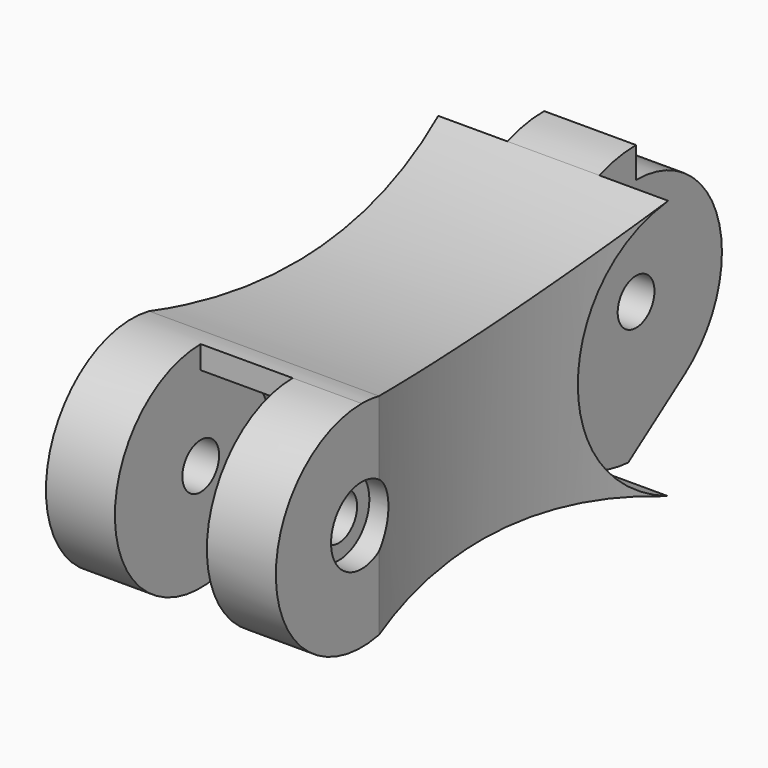
from build123d import *

# Parameters (mm, degrees)
F1_DEPTH  = 4.5
F3_DEPTH  = 6
F5_DEPTH  = 4.5
F6_R      = 9
F7_DEPTH  = 4.5
F8_R      = 9
F9_DEPTH  = 4.5
F11_DEPTH = 10.501
F12_R     = 1.5
F13_DEPTH = 15.001
F14_R     = 2.5
F15_DEPTH = 1.5
F16_R     = 2.5
F17_DEPTH = 1.5
F18_R     = 48.9418090598
F19_DEPTH = 12.5


with BuildPart() as f1:
    # F0 (on Right) → F1 (new body)
    with BuildSketch(Plane.YZ):
        with BuildLine():
            ThreePointArc((24.9939795279, 8.4831504125), (13.3131715809, 6.0580646826), (1.4100295584, 6.8565163636))
            ThreePointArc((1.4100295584, 6.8565163636), (-7, 0), (1.4100295584, -6.8565163636))
            ThreePointArc((1.4100295584, -6.8565163636), (13.3131715809, -6.0580646826), (24.9939795279, -8.4831504125))
            ThreePointArc((24.9939795279, -8.4831504125), (37, 0), (24.9939795279, 8.4831504125))
        make_face()
    extrude(amount=F1_DEPTH)

    # F2 (on face) → F3 (join)
    with BuildSketch(Plane.YZ.offset(4.5)):
        with BuildLine():
            ThreePointArc((24.9939795279, 8.4831504125), (13.3131715809, 6.0580646826), (1.4100295584, 6.8565163636))
            ThreePointArc((1.4100295584, 6.8565163636), (0.7086555774, 6.9640367082), (0, 7))
            Line((0, 7), (0, 5.5))
            ThreePointArc((0, 5.5), (2.9705148408, 4.628827236), (5, 2.2912878475))
            Line((5, 2.2912878475), (8.7899052004, -5.9789633228))
            ThreePointArc((8.7899052004, -5.9789633228), (17.0094937021, -6.4704065852), (24.9939795279, -8.4831504125))
            ThreePointArc((24.9939795279, -8.4831504125), (37, 0), (24.9939795279, 8.4831504125))
        make_face()
    extrude(amount=F3_DEPTH)

    # F4 (on face) → F5 (join)
    with BuildSketch(Plane.YZ.offset(10.5)):
        with BuildLine():
            ThreePointArc((1.4100295584, 6.8565163636), (0.7086555774, 6.9640367082), (0, 7))
            ThreePointArc((0, 7), (-6.9640367082, -0.7086555774), (1.4100295584, -6.8565163636))
            ThreePointArc((1.4100295584, -6.8565163636), (5.0814258107, -6.261812549), (8.7899052004, -5.9789633228))
            ThreePointArc((8.7899052004, -5.9789633228), (17.0094937021, -6.4704065852), (24.9939795279, -8.4831504125))
            ThreePointArc((24.9939795279, -8.4831504125), (26.6900035871, -8.9041512452), (28.4354151468, -8.9894612547))
            ThreePointArc((28.4354151468, -8.9894612547), (36.8303478161, 1.7392404799), (24.9939795279, 8.4831504125))
            ThreePointArc((24.9939795279, 8.4831504125), (13.3131715809, 6.0580646826), (1.4100295584, 6.8565163636))
        make_face()
    extrude(amount=F5_DEPTH)

    # F6 (on face) → F7 (cut)
    with BuildSketch(Plane.YZ.offset(15)):
        with Locations((28, 0)):
            Circle(F6_R)
    extrude(amount=-F7_DEPTH, mode=Mode.SUBTRACT)

    # F8 (on face) → F9 (cut)
    with BuildSketch(Plane(origin=(0, 0, 0), x_dir=(0, -1, 0), z_dir=(-1, 0, 0))):
        with Locations((-28, 0)):
            Circle(F8_R)
    extrude(amount=-F9_DEPTH, mode=Mode.SUBTRACT)

    # F10 (on face) → F11 (cut, through all)
    with BuildSketch(Plane.YZ.offset(10.5)):
        with BuildLine():
            ThreePointArc((28, 7), (34.6787700412, 2.0961943462), (32, -5.7445626465))
            Line((32, -5.7445626465), (27.3576923402, -8.9770507891))
            ThreePointArc((27.3576923402, -8.9770507891), (36.9942608674, -0.3213587544), (28, 9))
            Line((28, 9), (28, 7))
        make_face()
    extrude(amount=-F11_DEPTH, mode=Mode.SUBTRACT)

    # F12 (on face) → F13 (cut, through all)
    with BuildSketch(Plane.YZ.offset(15)):
        Circle(F12_R)
        with Locations((28, 0)):
            Circle(F12_R)
    extrude(amount=-F13_DEPTH, mode=Mode.SUBTRACT)

    # F14 (on face) → F15 (cut)
    with BuildSketch(Plane.YZ.offset(15)):
        Circle(F14_R)
    extrude(amount=-F15_DEPTH, mode=Mode.SUBTRACT)

    # F16 (on face) → F17 (cut)
    with BuildSketch(Plane(origin=(0, 0, 0), x_dir=(0, -1, 0), z_dir=(-1, 0, 0))):
        Circle(F16_R)
    extrude(amount=-F17_DEPTH, mode=Mode.SUBTRACT)

    # F18 (on Top) → F19 (cut, symmetric)
    with BuildSketch(Plane.XY):
        with Locations((-47.5, 13.2020045432)):
            Circle(F18_R)
        with Locations((62.5, 13.2020045432)):
            Circle(F18_R)
    extrude(amount=F19_DEPTH, both=True, mode=Mode.SUBTRACT)


solid = f1.part
